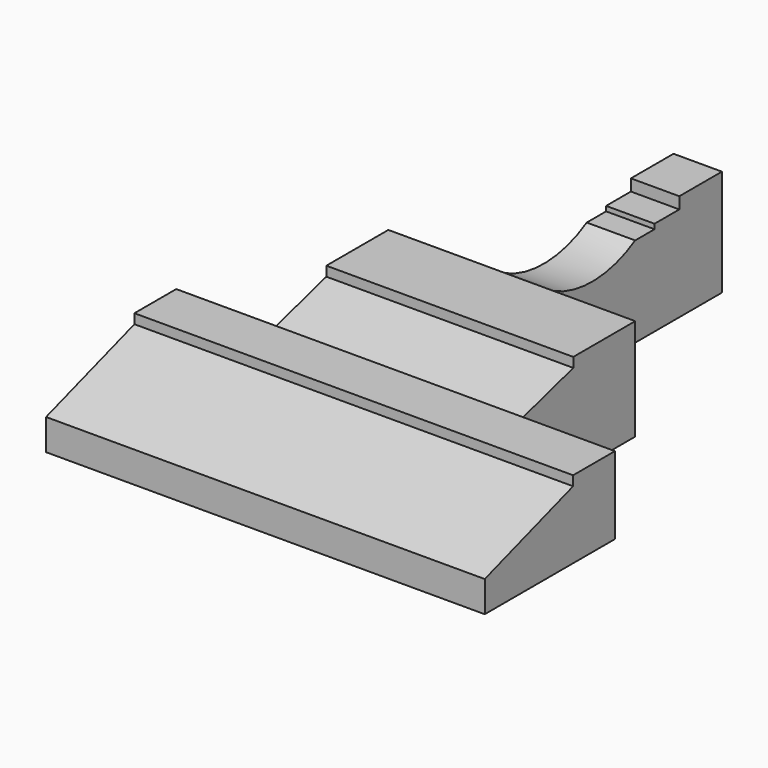
from build123d import *

# Parameters (mm, degrees)
F1_DEPTH      = 50
F2_W          = 255
F2_H          = 105
F3_DEPTH      = 150
F5_DEPTH      = 152.5
F5_DEPTH_BACK = 102.5
F6_W          = 453
F6_H          = 80
F7_DEPTH      = 168
F9_DEPTH      = 201.5
F9_DEPTH_BACK = 251.5


with BuildPart() as f1:
    # F0 (on Right) → F1 (new body)
    with BuildSketch(Plane.YZ):
        with BuildLine():
            Line((-240, 0), (0, 0))
            Line((0, 0), (0, 110))
            Line((0, 110), (-55, 110))
            Line((-55, 110), (-55, 98))
            Line((-55, 98), (-87, 98))
            Line((-87, 98), (-87, 93))
            Line((-87, 93), (-112, 93))
            ThreePointArc((-112, 93), (-177.9234989858, 78.4826774845), (-240, 105))
            Line((-240, 105), (-240, 0))
        make_face()
    extrude(amount=F1_DEPTH)


with BuildPart() as f3:
    # F2 (on face) → F3 (new body)
    with BuildSketch(Plane.XZ.offset(240)):
        with Locations((25, 52.5)):
            Rectangle(F2_W, F2_H)
    extrude(amount=F3_DEPTH)

    # F4 (on Right) → F5 (cut, two sides)
    with BuildSketch(Plane.YZ) as f5_sk:
        Polygon((-320, 105), (-390, 105), (-390, 75), (-320, 95), align=None)
    extrude(amount=F5_DEPTH, mode=Mode.SUBTRACT)
    extrude(f5_sk.sketch, amount=-F5_DEPTH_BACK, mode=Mode.SUBTRACT)


with BuildPart() as f7:
    # F6 (on face) → F7 (new body)
    with BuildSketch(Plane.XZ.offset(390)):
        with Locations((25, 40)):
            Rectangle(F6_W, F6_H)
    extrude(amount=F7_DEPTH)

    # F8 (on Right) → F9 (cut, two sides)
    with BuildSketch(Plane.YZ) as f9_sk:
        Polygon((-444, 80), (-558, 80), (-558, 32), (-444, 70), align=None)
    extrude(amount=-F9_DEPTH, mode=Mode.SUBTRACT)
    extrude(f9_sk.sketch, amount=F9_DEPTH_BACK, mode=Mode.SUBTRACT)


solid = Compound([f1.part, f3.part, f7.part])
